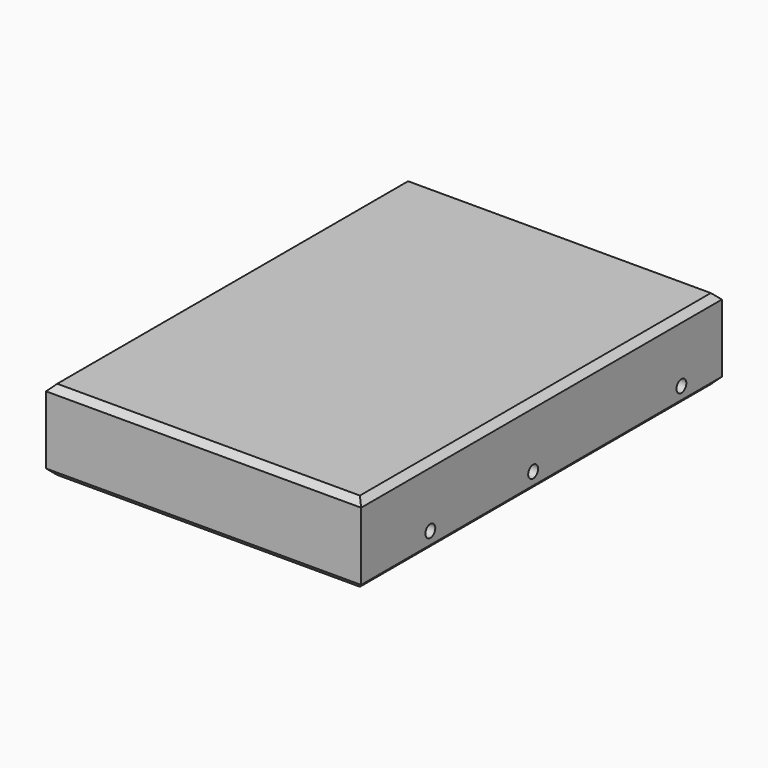
from build123d import *

# Parameters (mm, degrees)
SKETCH068_W             = 102
SKETCH068_H             = 146
PAD023_DEPTH            = 26
SKETCH069_R             = 2
POCKET045_DEPTH         = 102.001
CHAMFER004_SIZE         = 2
BODY019_PLACEMENT_ANGLE = 180


with BuildPart() as part:
    # Sketch068 → Pad023 (new body)
    with BuildSketch(Plane.XY):
        Rectangle(SKETCH068_W, SKETCH068_H)
    extrude(amount=PAD023_DEPTH)

    # Sketch069 (on Face3 of Pad023) → Pocket045 (cut, through all)
    with BuildSketch(Plane.YZ.offset(51)):
        with Locations((45, 6)):
            Circle(SKETCH069_R)
        with Locations((3.4, 6)):
            Circle(SKETCH069_R)
        with Locations((-56.6, 6)):
            Circle(SKETCH069_R)
    extrude(amount=-POCKET045_DEPTH, mode=Mode.SUBTRACT)

    # Chamfer004
    chamfer004_edges = [part.edges().sort_by_distance(p)[0] for p in [
        (-51, 0, 0),
        (0, -73, 0),
        (51, 0, 0),
        (0, 73, 0),
        (-51, 0, 26),
        (0, -73, 26),
        (51, 0, 26),
        (0, 73, 26),
    ]]
    chamfer(chamfer004_edges, length=CHAMFER004_SIZE)


with BuildPart() as part_1:
    # Body019 placement: moved
    add(part.part.moved(Location((63.5, 58.4, 72.8))).rotate(Axis((63.5, 58.4, 72.8), (0, 0, 1)), BODY019_PLACEMENT_ANGLE))


solid = part_1.part
